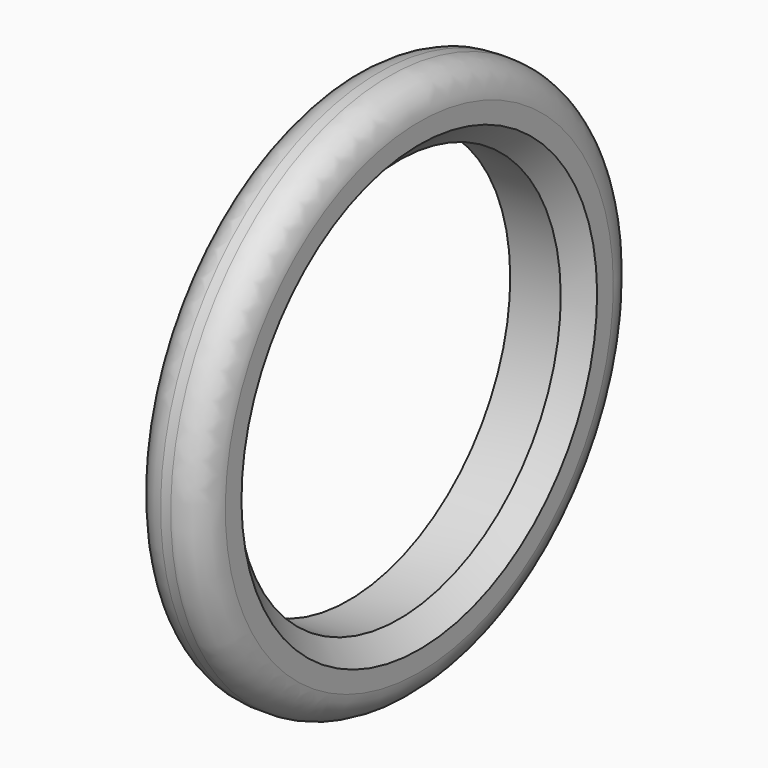
from build123d import *


with BuildPart() as f2:
    # F0 (on Top) → F2 (revolve)
    with BuildSketch(Plane.XY):
        with BuildLine():
            Line((0, 4), (0, 0))
            Line((0, 0), (5, 0))
            Line((5, 0), (7, 2))
            Line((7, 2), (7, 4))
            ThreePointArc((7, 4), (6.1213203436, 6.1213203436), (4, 7))
            Line((4, 7), (3, 7))
            ThreePointArc((3, 7), (0.8786796564, 6.1213203436), (0, 4))
        make_face()
    revolve(axis=Axis((0, -19.9978569107, -0.2927780354), (1, 0, 0)))


with BuildPart() as f3_1:
    # F3: copy of F2
    add(f2.part)


solid = Compound([f2.part, f3_1.part])
